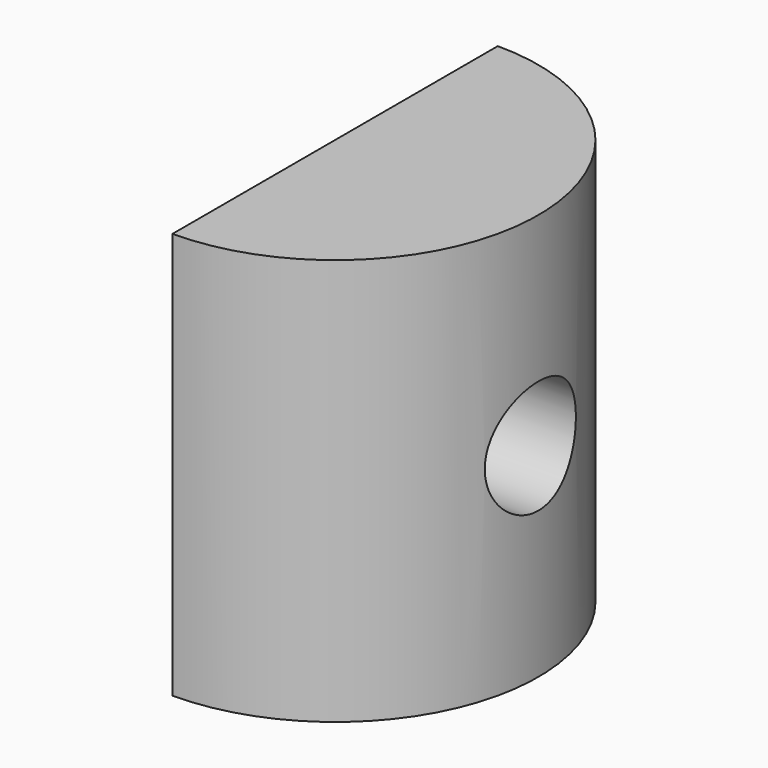
from build123d import *

# Parameters (mm, degrees)
F1_DEPTH = 25
F2_R     = 3.5
F3_DEPTH = 25


with BuildPart() as f1:
    # F0 (on Top) → F1 (new body)
    with BuildSketch(Plane.XY):
        with BuildLine():
            Line((0, 12.5), (0, -12.5))
            ThreePointArc((0, -12.5), (12.5, 0), (0, 12.5))
        make_face()
    extrude(amount=F1_DEPTH)

    # F2 (on face) → F3 (cut)
    with BuildSketch(Plane(origin=(0, 0, 0), x_dir=(0, -1, 0), z_dir=(-1, 0, 0))):
        with Locations((0, 12.5)):
            Circle(F2_R)
    extrude(amount=-F3_DEPTH, mode=Mode.SUBTRACT)


solid = f1.part
